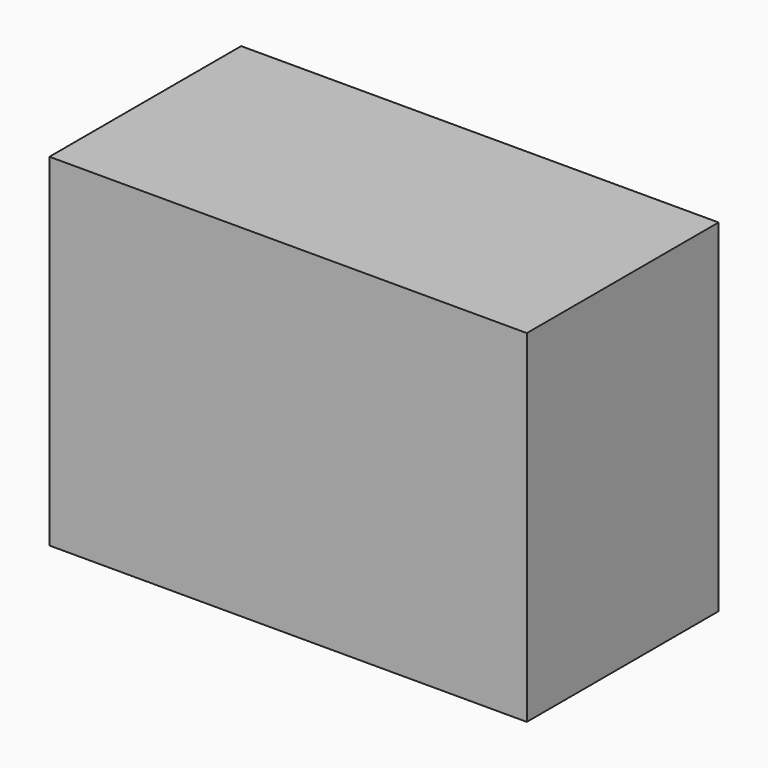
from build123d import *

# Parameters (mm, degrees)
F0_W      = 50.6029836833
F0_H      = 36.2813845277
F1_DEPTH  = 25.4
F2_W      = 26.160787791
F2_H      = 17.9497376084
F1_FACE_W = 50.6029836833
F1_FACE_H = 36.2813845277
F3_DEPTH  = 25.4


with BuildPart() as f1:
    # F0 (on Front) → F1 (new body)
    with BuildSketch(Plane.XZ):
        with Locations((-25.3014918417, 18.1406922638)):
            Rectangle(F0_W, F0_H)
    extrude(amount=F1_DEPTH)

    # F2 (on Front) + F1_face (on face) → F3 (join)
    with BuildSketch(Plane.XZ):
        with Locations((-34.6582699567, 8.9748688042)):
            Rectangle(F2_W, F2_H)
    with BuildSketch(Plane(origin=(-25.3014918417, 0, 18.1406922638), x_dir=(1, 0, 0), z_dir=(0, 1, 0))):
        Rectangle(F1_FACE_W, F1_FACE_H)
    extrude(amount=F3_DEPTH, dir=(0, -1, 0))


solid = f1.part
